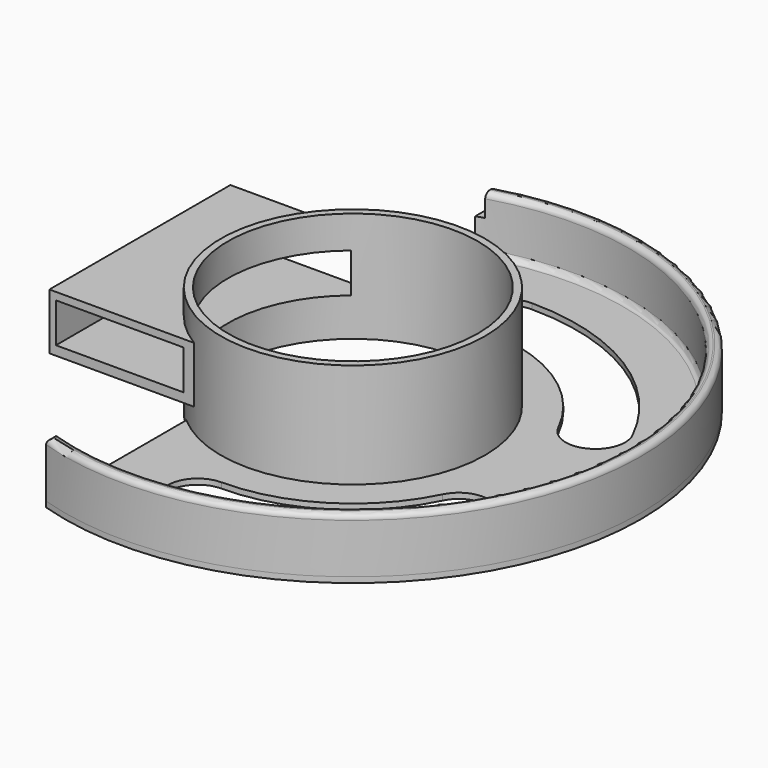
from build123d import *

# Parameters (mm, degrees)
SKETCH_R        = 23.948567
PAD_DEPTH       = 20
SKETCH001_W     = 28.280895
SKETCH001_H     = 10.191083
PAD001_DEPTH    = 20.5
PAD002_DEPTH    = 1
PAD003_DEPTH    = 10
FILLET_R        = 1
FILLET001_R     = 1
SKETCH005_W     = 23.089169
SKETCH005_H     = 7.165605
POCKET_DEPTH    = 72.73646
SKETCH006_R     = 22.653648
POCKET001_DEPTH = 20.001
POCKET002_DEPTH = 5


with BuildPart() as part:
    # Sketch → Pad (new body)
    with BuildSketch(Plane.XY):
        Circle(SKETCH_R)
    extrude(amount=PAD_DEPTH)

    # Sketch001 → Pad001 (join, symmetric)
    with BuildSketch(Plane.XZ):
        with Locations((-24.474199, 10.350326)):
            Rectangle(SKETCH001_W, SKETCH001_H)
    extrude(amount=PAD001_DEPTH, both=True)

    # Sketch002 (on Face2 of Pad001) → Pad002 (join)
    with BuildSketch(Plane(origin=(0, 0, 0), x_dir=(1, 0, 0), z_dir=(0, 0, -1))):
        with BuildLine():
            ThreePointArc((-15.78, -49.794891), (52.235424, 0), (-15.78, 49.794891))
            Line((-15.78, 49.794891), (-15.78, -49.794891))
        make_face()
    extrude(amount=-PAD002_DEPTH)

    # Sketch004 (on Face2 of Pad001) → Pad003 (join)
    with BuildSketch(Plane(origin=(0, 0, 1), x_dir=(1, 0, 0), z_dir=(0, 0, -1))):
        with BuildLine():
            ThreePointArc((-15.78, -49.794928), (52.23546, 0), (-15.78, 49.794928))
            Line((-15.78, 49.794928), (-15.78, 47.444616))
            ThreePointArc((-15.78, -47.444616), (50, 0), (-15.78, 47.444616))
            Line((-15.78, -47.444616), (-15.78, -49.794928))
        make_face()
    extrude(amount=-PAD003_DEPTH)

    # Fillet
    fillet_edges = [part.edges().sort_by_distance(p)[0] for p in [
        (50, 0, 1),
    ]]
    fillet(fillet_edges, radius=FILLET_R)

    # Fillet001
    fillet001_edges = [part.edges().sort_by_distance(p)[0] for p in [
        (52.23546, 0, 11),
        (-15.78, -48.619772, 11),
        (50, 0, 11),
        (-15.78, 48.619772, 11),
    ]]
    fillet(fillet001_edges, radius=FILLET001_R)

    # Sketch005 (on Face15 of Fillet001) → Pocket (cut, through all)
    with BuildSketch(Plane.XZ.offset(20.5)):
        with Locations((-25.879338, 10.514653)):
            Rectangle(SKETCH005_W, SKETCH005_H)
    extrude(amount=-POCKET_DEPTH, mode=Mode.SUBTRACT)

    # Sketch006 (on Face16 of Pocket) → Pocket001 (cut, through all)
    with BuildSketch(Plane.XY.offset(20)):
        Circle(SKETCH006_R)
    extrude(amount=-POCKET001_DEPTH, mode=Mode.SUBTRACT)

    # Sketch007 (on Face6 of Pocket001) → Pocket002 (cut)
    with BuildSketch(Plane.XY.offset(1)):
        with BuildLine():
            ThreePointArc((0, 40.554842), (-5.38709, 35.167753), (0, 29.780663))
            ThreePointArc((26.742534, 13.104381), (15.758026, 25.269993), (0, 29.780663))
            ThreePointArc((26.742534, 13.104381), (33.950529, 10.637346), (36.417565, 17.845341))
            ThreePointArc((36.417565, 17.845341), (21.459033, 34.412281), (0, 40.554842))
        make_face()
        with BuildLine():
            ThreePointArc((0, -29.780663), (-5.38709, -35.167753), (0, -40.554842))
            ThreePointArc((0, -40.554842), (21.459033, -34.412281), (36.417565, -17.845341))
            ThreePointArc((36.417565, -17.845341), (33.950529, -10.637346), (26.742534, -13.104381))
            ThreePointArc((0, -29.780663), (15.758026, -25.269993), (26.742534, -13.104381))
        make_face()
    extrude(amount=-POCKET002_DEPTH, mode=Mode.SUBTRACT)


solid = part.part
